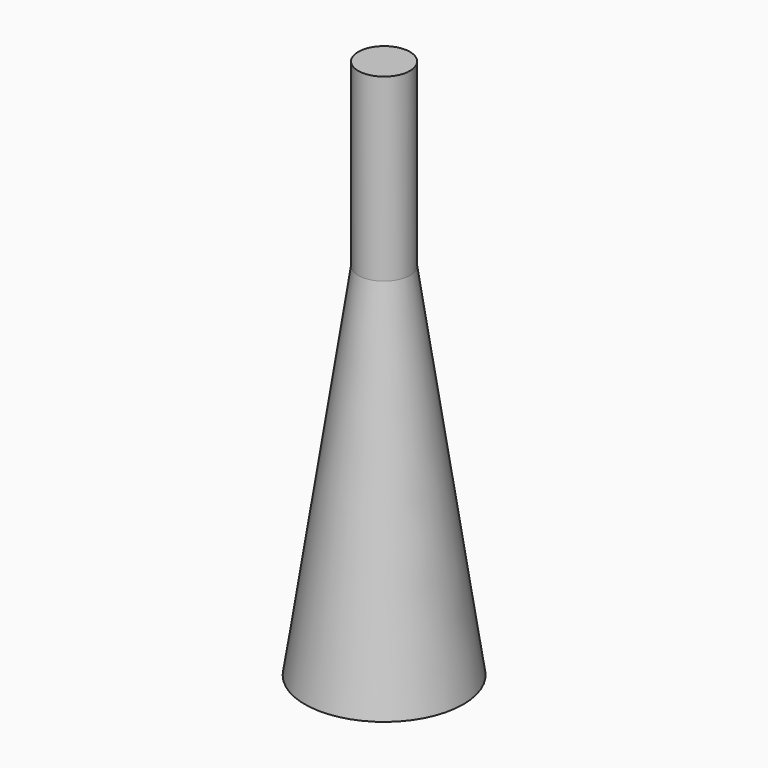
from build123d import *

# Parameters (mm, degrees)
F2_W      = 56.300126
F2_H      = 25.4
F3_DEPTH  = 10.16
F3_FACE_R = 3.643881
F4_DEPTH  = 25.4


with BuildPart() as f1:
    # F0 (on Front) → F1 (revolve)
    with BuildSketch(Plane.XZ):
        Polygon((0, 75.375971), (0, 0), (11.176, 0), align=None)
    revolve(axis=Axis((0, 0, 32.428367), (0, 0, -1)))

    # F2 (on Right) → F3 (cut, symmetric)
    with BuildSketch(Plane.YZ):
        with Locations((-3.274256, 63.5)):
            Rectangle(F2_W, F2_H)
    extrude(amount=F3_DEPTH, both=True, mode=Mode.SUBTRACT)

    # F3_face (on face) → F4 (join)
    with BuildSketch(Plane.XY.offset(50.8)):
        Circle(F3_FACE_R)
    extrude(amount=F4_DEPTH)


solid = f1.part
